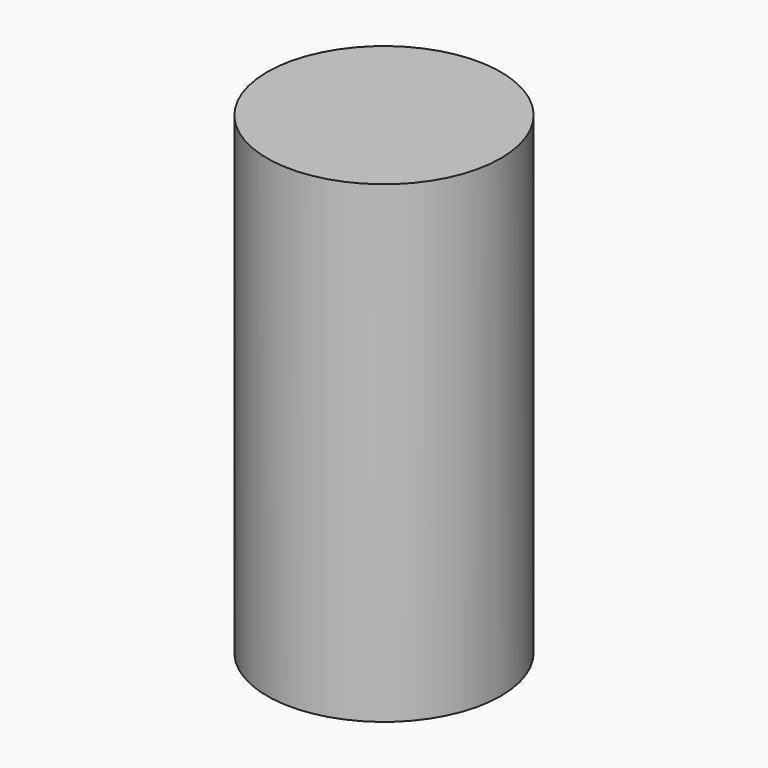
from build123d import *

# Parameters (mm, degrees)
F0_R     = 2
F1_DEPTH = 8
F2_DEPTH = 8.1


with BuildPart() as f1:
    # F0 (on Top) → F1 (new body)
    with BuildSketch(Plane.XY):
        Circle(F0_R)
    extrude(amount=F1_DEPTH)


with BuildPart() as f2:
    # F0 (on Top) → F2 (new body)
    with BuildSketch(Plane.XY):
        Circle(F0_R)
    extrude(amount=F2_DEPTH)


solid = Compound([f1.part, f2.part])
